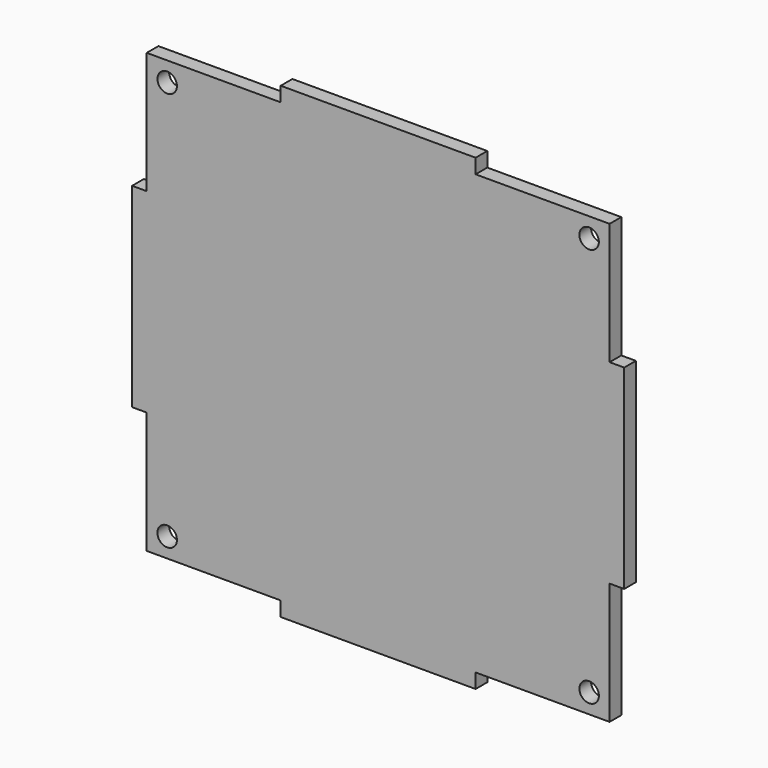
from build123d import *

# Parameters (mm, degrees)
F0_R     = 2
F1_DEPTH = 3


with BuildPart() as f1:
    # F0 (on Front) → F1 (new body)
    with BuildSketch(Plane.XZ):
        Polygon((-50.5, 20), (-50.5, 0), (-50.5, -20), (-47.5, -20), (-47.5, -45), (-20, -45), (-20, -48), (0, -48), (20, -48), (20, -45), (47.5, -45), (47.5, -20), (50.5, -20), (50.5, 0), (50.5, 20), (47.5, 20), (47.5, 45), (20, 45), (20, 48), (0, 48), (-20, 48), (-20, 45), (-47.5, 45), (-47.5, 20), align=None)
        with Locations((-43.3, -41)):
            Circle(F0_R, mode=Mode.SUBTRACT)
        with Locations((43.3, -41)):
            Circle(F0_R, mode=Mode.SUBTRACT)
        with Locations((-43.3, 41)):
            Circle(F0_R, mode=Mode.SUBTRACT)
        with Locations((43.3, 41)):
            Circle(F0_R, mode=Mode.SUBTRACT)
    extrude(amount=F1_DEPTH)


solid = f1.part
